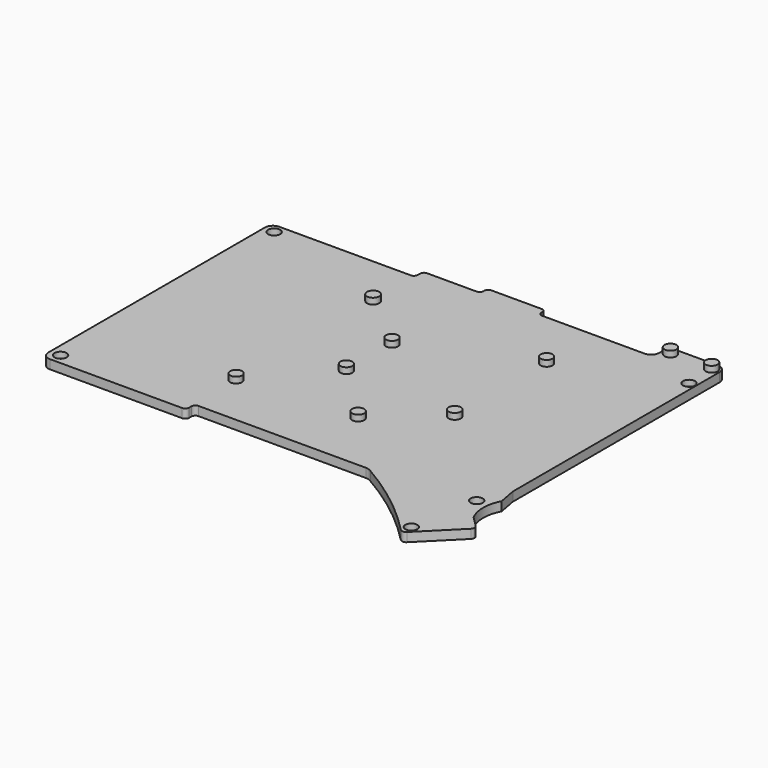
from build123d import *

# Parameters (mm, degrees)
PAD_DEPTH       = 3
SKETCH013_R     = 1.970107
SKETCH013_R_2   = 2.014006
SKETCH013_R_3   = 1.966045
SKETCH013_R_4   = 2.046443
SKETCH013_R_5   = 1.971077
SKETCH013_R_6   = 2.0005
SKETCH013_R_7   = 2.019658
SKETCH013_R_8   = 1.997918
PAD014_DEPTH    = 2
SKETCH016_R     = 2
POCKET001_DEPTH = 2


with BuildPart() as part:
    # Sketch → Pad (new body)
    with BuildSketch(Plane.XY):
        with BuildLine():
            ThreePointArc((2.691092, -17.424324), (0.807563, -18.209051), (0.022899, -20.092606))
            Line((0.022899, -20.092606), (0.022899, -110.261101))
            ThreePointArc((0.022899, -110.261101), (0.80276, -112.148767), (2.690309, -112.928909))
            Line((2.690309, -112.928909), (46.758133, -112.928909))
            ThreePointArc((46.758133, -112.928909), (47.657861, -112.558702), (48.026189, -111.658203))
            Line((48.026189, -111.658203), (48.026189, -110.643822))
            ThreePointArc((49.299188, -109.370278), (48.401516, -109.74599), (48.026189, -110.643822))
            Line((49.299188, -109.370278), (105.051811, -109.370278))
            ThreePointArc((107.084557, -110.008187), (106.115549, -109.538299), (105.051811, -109.370278))
            ThreePointArc((134.00774, -130.962361), (121.270775, -119.55423), (107.084557, -110.008187))
            ThreePointArc((134.00774, -130.962361), (135.023899, -131.385154), (136.040024, -130.96228))
            Line((136.040024, -130.96228), (147.850815, -119.15155))
            ThreePointArc((147.850815, -119.15155), (148.27253, -118.135527), (147.850845, -117.119492))
            Line((147.850845, -117.119492), (144.422364, -113.692703))
            ThreePointArc((144.421555, -102.010086), (142.938996, -107.851497), (144.422364, -113.692703))
            Line((144.421555, -102.010086), (143.278885, -95.909729))
            Line((143.278885, -95.909729), (143.278885, -9.814656))
            ThreePointArc((143.278885, -9.814656), (142.501515, -7.922142), (140.611955, -7.137621))
            Line((140.611955, -7.137621), (126.896004, -7.137621))
            ThreePointArc((126.896004, -7.137621), (125.009764, -7.926259), (124.228843, -9.815708))
            Line((124.228843, -9.815708), (124.228843, -11.201195))
            ThreePointArc((121.560973, -13.869035), (123.447403, -13.087617), (124.228843, -11.201195))
            Line((121.560973, -13.869035), (87.398842, -13.869035))
            ThreePointArc((86.128205, -12.598599), (86.501641, -13.495741), (87.398842, -13.869035))
            Line((86.128205, -12.217462), (86.128205, -12.598599))
            ThreePointArc((86.128205, -12.217462), (85.757691, -11.31862), (84.859047, -10.947623))
            Line((84.859047, -10.947623), (68.094903, -10.947623))
            ThreePointArc((68.094903, -10.947623), (67.198822, -11.321427), (66.825078, -12.217532))
            Line((66.825078, -12.598418), (66.825078, -12.217532))
            ThreePointArc((65.554496, -13.868415), (66.453928, -13.497679), (66.825078, -12.598418))
            Line((65.554496, -13.868415), (49.045334, -13.868415))
            ThreePointArc((49.045334, -13.868415), (48.149198, -14.2429), (47.774544, -15.138965))
            Line((47.774544, -15.138965), (47.774544, -16.154249))
            ThreePointArc((46.504146, -17.424324), (47.403928, -17.053937), (47.774544, -16.154249))
            Line((46.504146, -17.424324), (2.691092, -17.424324))
        make_face()
    extrude(amount=-PAD_DEPTH)

    # Sketch013 → Pad014 (join)
    with BuildSketch(Plane.XY):
        with Locations((105.029465, -34.063732)):
            Circle(SKETCH013_R)
        with Locations((85.981422, -88.730209)):
            Circle(SKETCH013_R_2)
        with Locations((47.866016, -91.887985)):
            Circle(SKETCH013_R_3)
        with Locations((47.861008, -34.833092)):
            Circle(SKETCH013_R_4)
        with Locations((66.937889, -69.828568)):
            Circle(SKETCH013_R_5)
        with Locations((66.903061, -50.778069)):
            Circle(SKETCH013_R_6)
        with Locations((126.901398, -9.81155)):
            Circle(SKETCH013_R_7)
        with Locations((140.602615, -9.81155)):
            Circle(SKETCH013_R_8)
        with Locations((105.012505, -72.27108)):
            Circle(SKETCH013_R_2)
    extrude(amount=PAD014_DEPTH)

    # Sketch016 → Pocket001 (cut)
    with BuildSketch(Plane.XY):
        with Locations((135.15451, -128.047943)):
            Circle(SKETCH016_R)
        with Locations((139.153137, -105.817932)):
            Circle(SKETCH016_R)
        with Locations((140.994141, -19.711058)):
            Circle(SKETCH016_R)
        with Locations((3.483953, -109.468971)):
            Circle(SKETCH016_R)
        with Locations((3.485333, -20.56954)):
            Circle(SKETCH016_R)
    extrude(amount=-POCKET001_DEPTH, mode=Mode.SUBTRACT)


solid = part.part
